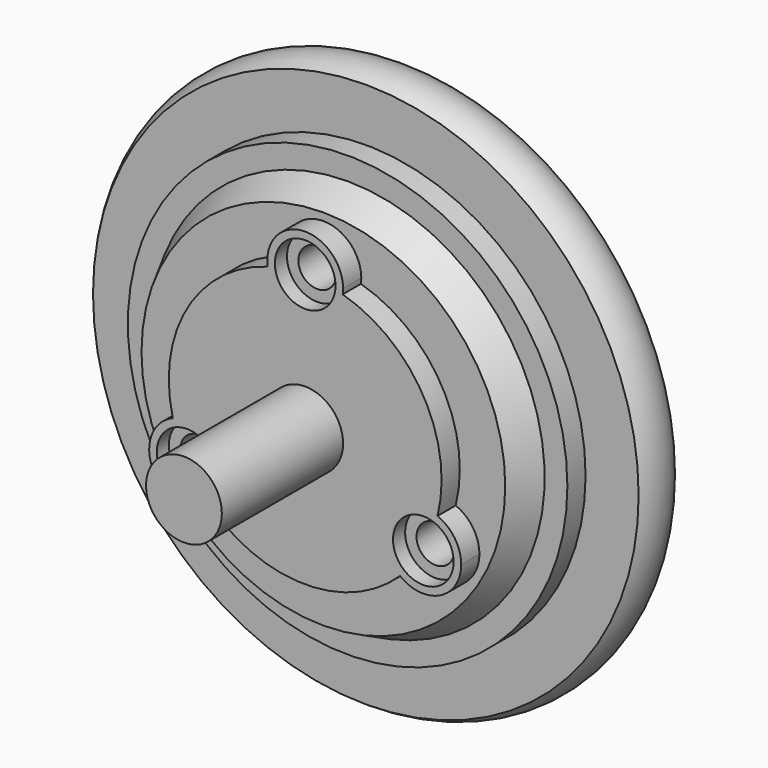
from build123d import *

# Parameters (mm, degrees)
F0_R      = 14.5
F1_DEPTH  = 6
F4_R      = 9
F5_DEPTH  = 1.5
F6_R      = 2.5
F7_DEPTH  = 10
F9_DEPTH  = 9
F10_R     = 13.5
F11_DEPTH = 5
F13_DEPTH = 14
F18_R     = 1.25
F19_DEPTH = 4.5
F16_R     = 2
F20_DEPTH = 1


with BuildPart() as f1:
    # F0 (on Front) → F1 (new body)
    with BuildSketch(Plane.XZ):
        Circle(F0_R)
    extrude(amount=F1_DEPTH)

    # F2 (on Right) → F3 (revolve)
    with BuildSketch(Plane.YZ):
        Polygon((-8, 0), (-6, 0), (-6, 13), (-8, 12), align=None)
    revolve(axis=Axis((0, -7, 0), (0, -1, 0)))

    # F4 (on face) → F5 (join)
    with BuildSketch(Plane.XZ.offset(8)):
        Circle(F4_R)
    extrude(amount=F5_DEPTH)

    # F6 (on face) → F7 (join)
    with BuildSketch(Plane.XZ.offset(9.5)):
        Circle(F6_R)
    extrude(amount=F7_DEPTH)

    # F8 (on face) → F9 (join)
    with BuildSketch(Plane.XZ.offset(9.5)):
        with BuildLine():
            ThreePointArc((8.731410332, -2.1823092387), (7.6201953269, -2.0060648749), (6.5442286341, -2.3349364905))
            Line((6.5442286341, -2.3349364905), (7.7942286341, -4.5))
            ThreePointArc((7.7942286341, -4.5), (8.3436867406, -3.3738541128), (8.731410332, -2.1823092387))
        make_face()
        with BuildLine():
            ThreePointArc((8.731410332, -2.1823092387), (8.3436867406, -3.3738541128), (7.7942286341, -4.5))
            ThreePointArc((7.7942286341, -4.5), (7.0936867406, -5.5389176222), (6.2556404057, -6.4704685391))
            ThreePointArc((6.2556404057, -6.4704685391), (8.8904789314, -6.7468278273), (10.2942286341, -4.5))
            ThreePointArc((10.2942286341, -4.5), (9.8670231541, -3.1023151723), (8.731410332, -2.1823092387))
        make_face()
        with BuildLine():
            ThreePointArc((6.2556404057, -6.4704685391), (7.0936867406, -5.5389176222), (7.7942286341, -4.5))
            Line((7.7942286341, -4.5), (5.2942286341, -4.5))
            ThreePointArc((5.2942286341, -4.5), (5.5474008068, -5.5962502974), (6.2556404057, -6.4704685391))
        make_face()
        with BuildLine():
            Line((7.7942286341, -4.5), (6.5442286341, -2.3349364905))
            ThreePointArc((6.5442286341, -2.3349364905), (5.6291651246, -3.25), (5.2942286341, -4.5))
            Line((5.2942286341, -4.5), (7.7942286341, -4.5))
        make_face()
        with BuildLine():
            ThreePointArc((-5.2942286341, -4.5), (-5.6291651246, -3.25), (-6.5442286341, -2.3349364905))
            Line((-6.5442286341, -2.3349364905), (-7.7942286341, -4.5))
            Line((-7.7942286341, -4.5), (-5.2942286341, -4.5))
        make_face()
        with BuildLine():
            Line((-7.7942286341, -4.5), (-6.5442286341, -2.3349364905))
            ThreePointArc((-6.5442286341, -2.3349364905), (-7.6201953269, -2.0060648749), (-8.731410332, -2.1823092387))
            ThreePointArc((-8.731410332, -2.1823092387), (-8.3436867406, -3.3738541128), (-7.7942286341, -4.5))
        make_face()
        with BuildLine():
            ThreePointArc((-7.7942286341, -4.5), (-8.3436867406, -3.3738541128), (-8.731410332, -2.1823092387))
            ThreePointArc((-8.731410332, -2.1823092387), (-9.9592921435, -5.75), (-6.2556404057, -6.4704685391))
            ThreePointArc((-6.2556404057, -6.4704685391), (-7.0936867406, -5.5389176222), (-7.7942286341, -4.5))
        make_face()
        with BuildLine():
            Line((-5.2942286341, -4.5), (-7.7942286341, -4.5))
            ThreePointArc((-7.7942286341, -4.5), (-7.0936867406, -5.5389176222), (-6.2556404057, -6.4704685391))
            ThreePointArc((-6.2556404057, -6.4704685391), (-5.5474008068, -5.5962502974), (-5.2942286341, -4.5))
        make_face()
        with BuildLine():
            Line((-1.25, 6.8349364905), (0, 9))
            ThreePointArc((0, 9), (-1.25, 8.912771735), (-2.4757699264, 8.6527777778))
            ThreePointArc((-2.4757699264, 8.6527777778), (-2.0727945201, 7.6023151723), (-1.25, 6.8349364905))
        make_face()
        with BuildLine():
            Line((1.25, 6.8349364905), (0, 9))
            Line((0, 9), (-1.25, 6.8349364905))
            ThreePointArc((-1.25, 6.8349364905), (0, 6.5), (1.25, 6.8349364905))
        make_face()
        with BuildLine():
            ThreePointArc((2.4757699264, 8.6527777778), (1.25, 8.912771735), (0, 9))
            Line((0, 9), (1.25, 6.8349364905))
            ThreePointArc((1.25, 6.8349364905), (2.0727945201, 7.6023151723), (2.4757699264, 8.6527777778))
        make_face()
        with BuildLine():
            ThreePointArc((-2.4757699264, 8.6527777778), (-1.25, 8.912771735), (0, 9))
            ThreePointArc((0, 9), (1.25, 8.912771735), (2.4757699264, 8.6527777778))
            ThreePointArc((2.4757699264, 8.6527777778), (2.4939351251, 8.8259666928), (2.5, 9))
            ThreePointArc((2.5, 9), (-0.1740333072, 11.4939351251), (-2.4757699264, 8.6527777778))
        make_face()
    extrude(amount=-F9_DEPTH)

    # F10 (on face) → F11 (cut)
    with BuildSketch(Plane(origin=(0, 0, 0), x_dir=(-1, 0, 0), z_dir=(0, 1, 0))):
        Circle(F10_R)
    extrude(amount=-F11_DEPTH, mode=Mode.SUBTRACT)

    # F12 (on face) → F13 (cut)
    with BuildSketch(Plane(origin=(0, -5, 0), x_dir=(-1, 0, 0), z_dir=(0, 1, 0))):
        Polygon((1.5155444566, 0.875), (0, 1.75), (-1.5155444566, 0.875), (-1.5155444566, -0.875), (0, -1.75), (1.5155444566, -0.875), align=None)
    extrude(amount=-F13_DEPTH, mode=Mode.SUBTRACT)

    # F18 (on face) → F19 (cut)
    with BuildSketch(Plane(origin=(0, -5, 0), x_dir=(-1, 0, 0), z_dir=(0, 1, 0))):
        with Locations((7.7942286341, -4.5)):
            Circle(F18_R)
        with Locations((0, 9)):
            Circle(F18_R)
        with Locations((-7.7942286341, -4.5)):
            Circle(F18_R)
    extrude(amount=-F19_DEPTH, mode=Mode.SUBTRACT)

    # F16 (on face) → F20 (cut)
    with BuildSketch(Plane.XZ.offset(9.5)):
        with Locations((-7.7942286341, -4.5)):
            Circle(F16_R)
        with Locations((7.7942286341, -4.5)):
            Circle(F16_R)
        with Locations((0, 9)):
            Circle(F16_R)
    extrude(amount=-F20_DEPTH, mode=Mode.SUBTRACT)


with BuildPart() as f15:
    # F14 (on Top) → F15 (revolve)
    with BuildSketch(Plane.XY):
        with BuildLine():
            Line((14.5, -1.5), (14.5, -3))
            Line((14.5, -3), (14.5, -4.5))
            Line((14.5, -4.5), (18, -4.5))
            ThreePointArc((18, -4.5), (18.5, -3), (18, -1.5))
            Line((18, -1.5), (14.5, -1.5))
        make_face()
    revolve(axis=Axis((0, -3, 0), (0, -1, 0)))


solid = Compound([f1.part, f15.part])
